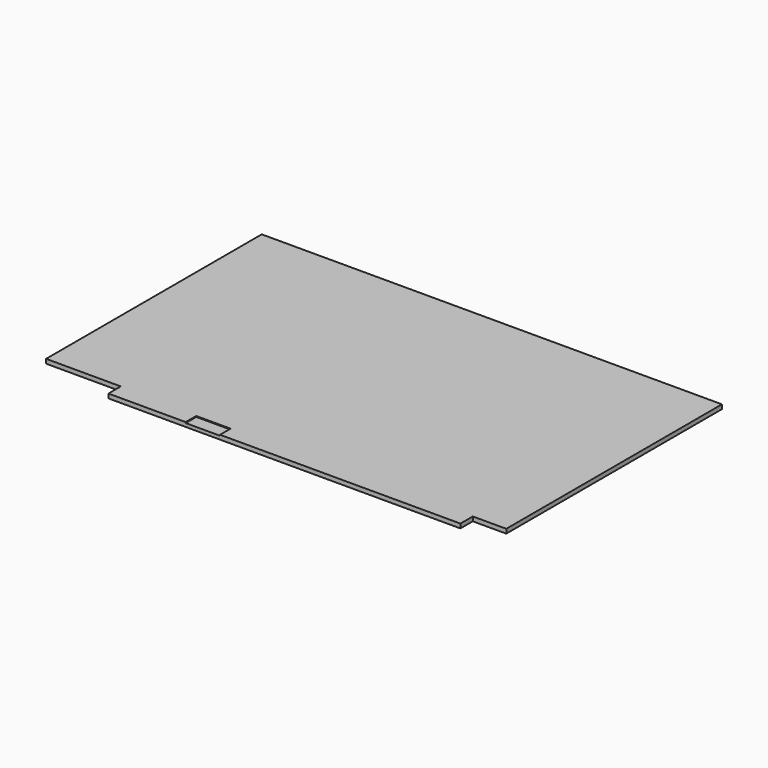
from build123d import *

# Parameters (mm, degrees)
F0_W     = 257
F0_H     = 145
F0_W_2   = 205
F0_H_2   = 9
F1_DEPTH = 2.5
F2_W     = 20
F2_H     = 7.7
F3_DEPTH = 0.5


with BuildPart() as f1:
    # F0 (on Top) → F1 (new body)
    with BuildSketch(Plane.XY):
        Polygon((133, 76), (-135, 76), (-135, -81), (-91.5, -81), (113.5, -81), (133, -81), align=None)
        Rectangle(F0_W, F0_H, mode=Mode.SUBTRACT)
        Rectangle(F0_W, F0_H)
        with Locations((11, -85.5)):
            Rectangle(F0_W_2, F0_H_2)
    extrude(amount=F1_DEPTH)

    # F2 (on face) → F3 (cut)
    with BuildSketch(Plane.XY.offset(2.5)):
        with Locations((-36.5, -86.15)):
            Rectangle(F2_W, F2_H)
    extrude(amount=-F3_DEPTH, mode=Mode.SUBTRACT)


solid = f1.part
